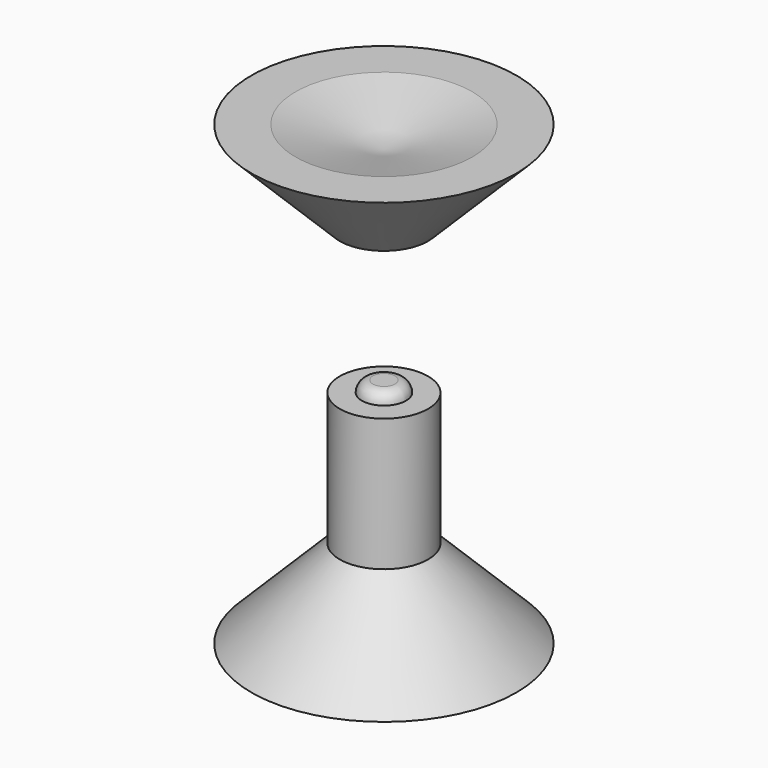
from build123d import *


with BuildPart() as f1:
    # F0 (on Front) → F1 (revolve)
    with BuildSketch(Plane.XZ):
        with BuildLine():
            Line((0, 1), (4, 0))
            Line((4, 0), (6, 0))
            Line((6, 0), (2, 4))
            Line((2, 4), (2, 10))
            Line((2, 10), (1, 10))
            ThreePointArc((1, 10), (0.853553, 10.353553), (0.5, 10.5))
            Line((0.5, 10.5), (0, 10.5))
            Line((0, 10.5), (0, 1))
        make_face()
        Polygon((1.2, 17.683683), (1.2, 16.683683), (2, 16.683683), (6, 20.683683), (4, 20.683683), (0, 19.683683), (0, 17.683683), align=None)
    revolve(axis=Axis((0, 0, 10.341842), (0, 0, 1)))


solid = f1.part
